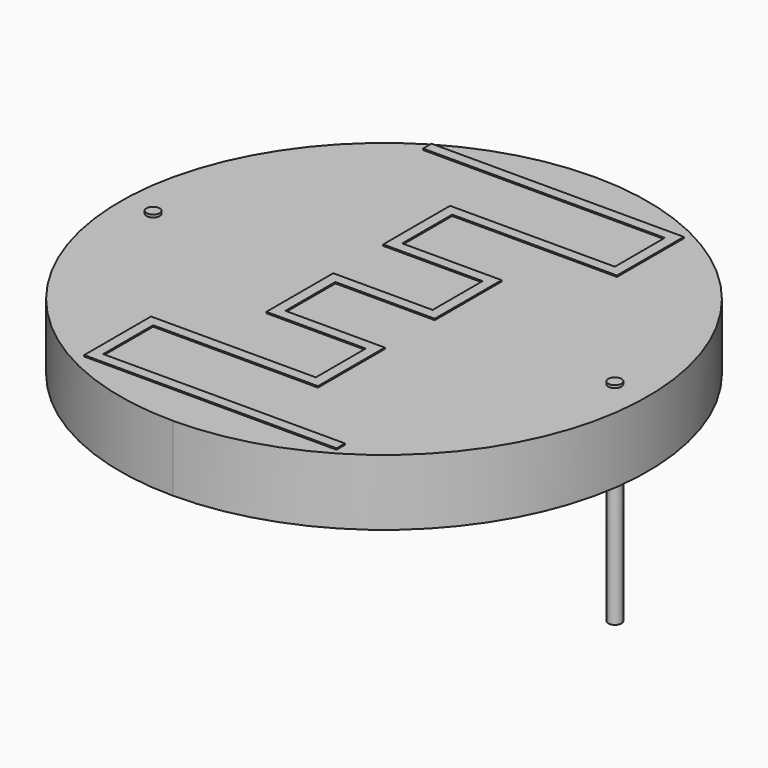
from build123d import *

# Parameters (mm, degrees)
PAD001_DEPTH   = 2.5
SKETCH_R       = 0.25
PAD_DEPTH      = 5
PAD_DEPTH_BACK = 3
PAD002_DEPTH   = 0.05


with BuildPart() as pad001:
    # Sketch001 → Pad001 (new body)
    with BuildSketch(Plane.XY.offset(4.9)):
        with BuildLine():
            ThreePointArc((8.749963, 10), (-1.25, 0), (8.749963, -10))
            Line((8.749963, -10), (8.749992, -10))
            ThreePointArc((8.749992, -10), (18.75, 0), (8.749992, 10))
            Line((8.749963, 10), (8.749992, 10))
        make_face()
    extrude(amount=-PAD001_DEPTH)


with BuildPart() as pad:
    # Sketch → Pad (new body, two sides)
    with BuildSketch(Plane.XY) as pad_sk:
        Circle(SKETCH_R)
        with Locations((17.5, 0)):
            Circle(SKETCH_R)
    extrude(amount=PAD_DEPTH)
    extrude(pad_sk.sketch, amount=-PAD_DEPTH_BACK)


with BuildPart() as obj1:
    # Sketch002 → Pad002 (new body)
    with BuildSketch(Plane.XY.offset(4.95)):
        Polygon((3.75, 8.1), (12.9125, 8.1), (12.9125, 5.733333), (6.666667, 5.733333), (6.666667, 5.333333), (6.666667, 2.566667), (7.066667, 2.566667), (10.433333, 2.566667), (10.433333, 0.2), (6.666667, 0.2), (6.666667, -0.2), (6.666667, -2.966667), (7.066667, -2.966667), (10.433333, -2.966667), (10.433333, -5.333333), (4.1875, -5.333333), (4.1875, -5.733333), (4.1875, -8.5), (4.5875, -8.5), (13.75, -8.5), (13.75, -8.1), (4.5875, -8.1), (4.5875, -5.733333), (10.433333, -5.733333), (10.833333, -5.733333), (10.833333, -2.966667), (10.833333, -2.566667), (7.066667, -2.566667), (7.066667, -0.2), (10.433333, -0.2), (10.833333, -0.2), (10.833333, 2.566667), (10.833333, 2.966667), (7.066667, 2.966667), (7.066667, 5.333333), (12.9125, 5.333333), (13.3125, 5.333333), (13.3125, 8.1), (13.3125, 8.5), (3.75, 8.5), align=None)
    extrude(amount=PAD002_DEPTH)

    add(pad001.part)
    add(pad.part)


solid = obj1.part
